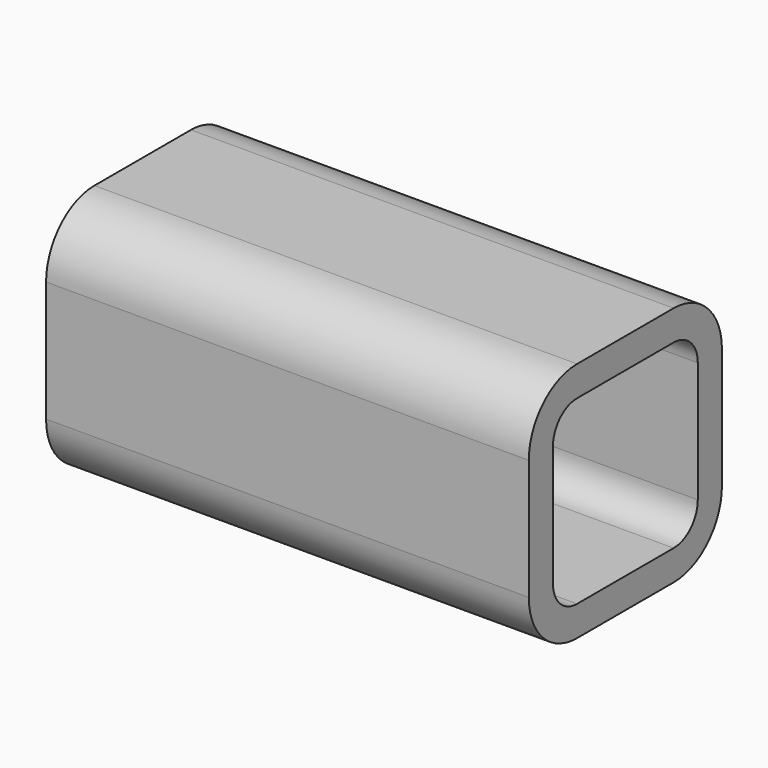
from build123d import *

# Parameters (mm, degrees)
F1_DEPTH = 50.8


with BuildPart() as f1:
    # F0 (on Right) → F1 (new body, symmetric)
    with BuildSketch(Plane.YZ):
        with BuildLine():
            ThreePointArc((-25.4, -12.7), (-21.680256, -21.680256), (-12.7, -25.4))
            Line((-12.7, -25.4), (12.7, -25.4))
            ThreePointArc((12.7, -25.4), (21.680256, -21.680256), (25.4, -12.7))
            Line((25.4, -12.7), (25.4, 12.7))
            ThreePointArc((25.4, 12.7), (21.680256, 21.680256), (12.7, 25.4))
            Line((12.7, 25.4), (-12.7, 25.4))
            ThreePointArc((-12.7, 25.4), (-21.680256, 21.680256), (-25.4, 12.7))
            Line((-25.4, 12.7), (-25.4, -12.7))
        make_face()
        with BuildLine():
            ThreePointArc((-12.7, -19.05), (-17.190128, -17.190128), (-19.05, -12.7))
            Line((-19.05, -12.7), (-19.05, 12.7))
            ThreePointArc((-19.05, 12.7), (-17.190128, 17.190128), (-12.7, 19.05))
            Line((-12.7, 19.05), (12.7, 19.05))
            ThreePointArc((12.7, 19.05), (17.190128, 17.190128), (19.05, 12.7))
            Line((19.05, 12.7), (19.05, -12.7))
            ThreePointArc((19.05, -12.7), (17.190128, -17.190128), (12.7, -19.05))
            Line((12.7, -19.05), (-12.7, -19.05))
        make_face(mode=Mode.SUBTRACT)
    extrude(amount=F1_DEPTH, both=True)


solid = f1.part
